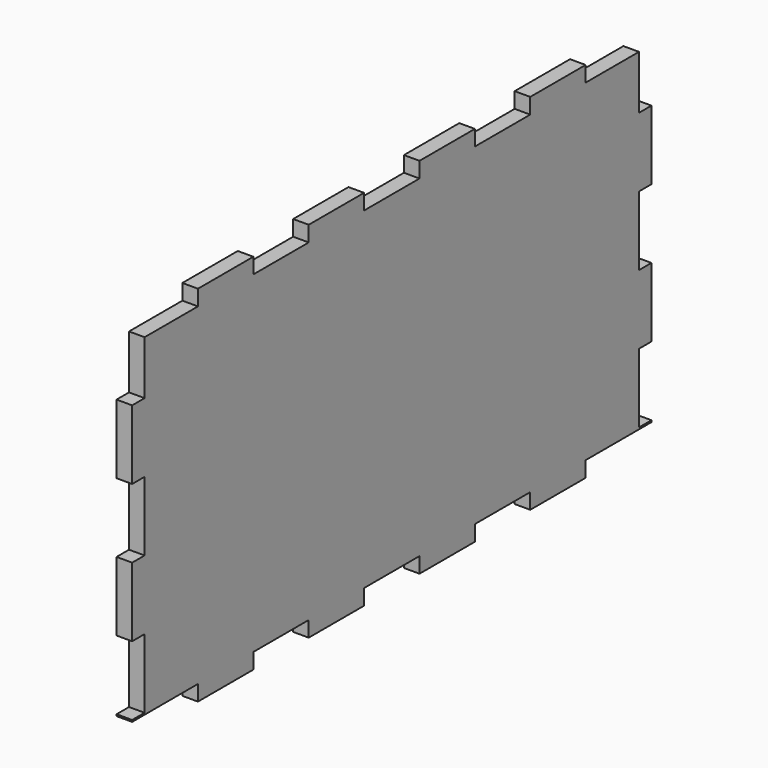
from build123d import *

# Parameters (mm, degrees)
F0_W     = 125
F0_H     = 70
F1_DEPTH = 3
F2_W     = 3
F2_H     = 3
F2_W_2   = 12.84
F2_H_2   = 10.3333
F2_W_3   = 13.3333
F2_W_4   = 13.32014
F2_W_5   = 0.01316
F3_DEPTH = 3.001


with BuildPart() as f1:
    # F0 (on Right) → F1 (new body)
    with BuildSketch(Plane.YZ):
        Rectangle(F0_W, F0_H)
    extrude(amount=F1_DEPTH)

    # F2 (on face) → F3 (cut, through all)
    with BuildSketch(Plane(origin=(0, 0, 0), x_dir=(0, -1, 0), z_dir=(-1, 0, 0))):
        with Locations((-61, 33.5)):
            Rectangle(F2_W, F2_H)
        with Locations((-53.08, 33.5)):
            Rectangle(F2_W_2, F2_H)
        with Locations((-61, 26.83335)):
            Rectangle(F2_W, F2_H_2)
        with Locations((-26.66005, 33.5)):
            Rectangle(F2_W_3, F2_H)
        with Locations((0, 33.5)):
            Rectangle(F2_W_4, F2_H)
        with Locations((-6.66665, 33.5)):
            Rectangle(F2_W_5, F2_H)
        with Locations((6.66665, 33.5)):
            Rectangle(F2_W_5, F2_H)
        with Locations((26.66005, 33.5)):
            Rectangle(F2_W_3, F2_H)
        with Locations((53.08, 33.5)):
            Rectangle(F2_W_2, F2_H)
        with Locations((61, 33.5)):
            Rectangle(F2_W, F2_H)
        with Locations((61, 26.83335)):
            Rectangle(F2_W, F2_H_2)
        Polygon((-62.5, 5.3334), (-62.5, -4.9999), (-59.5, -4.9999), (-59.5, 8.3334), (-62.5, 8.3334), align=None)
        Polygon((-62.5, -21.3332), (-62.5, -31.6665), (-59.5, -31.6665), (-59.5, -18.3332), (-62.5, -18.3332), align=None)
        Polygon((59.5, -31.6665), (62.5, -31.6665), (62.5, -21.3332), (62.5, -18.3332), (59.5, -18.3332), align=None)
        Polygon((59.5, -4.9999), (62.5, -4.9999), (62.5, 5.3334), (62.5, 8.3334), (59.5, 8.3334), align=None)
        with Locations((-6.66665, -33.5)):
            Rectangle(F2_W_5, F2_H)
        with Locations((0, -33.5)):
            Rectangle(F2_W_4, F2_H)
        with Locations((6.66665, -33.5)):
            Rectangle(F2_W_5, F2_H)
        Polygon((59.5, -35), (62.5, -35), (62.5, -32), (46.66, -32), (46.66, -35), align=None)
        Polygon((-62.5, -32), (-62.5, -35), (-59.5, -35), (-46.66, -35), (-46.66, -32), align=None)
        with Locations((-26.66005, -33.5)):
            Rectangle(F2_W_3, F2_H)
        with Locations((26.66005, -33.5)):
            Rectangle(F2_W_3, F2_H)
    extrude(amount=-F3_DEPTH, mode=Mode.SUBTRACT)


solid = f1.part
